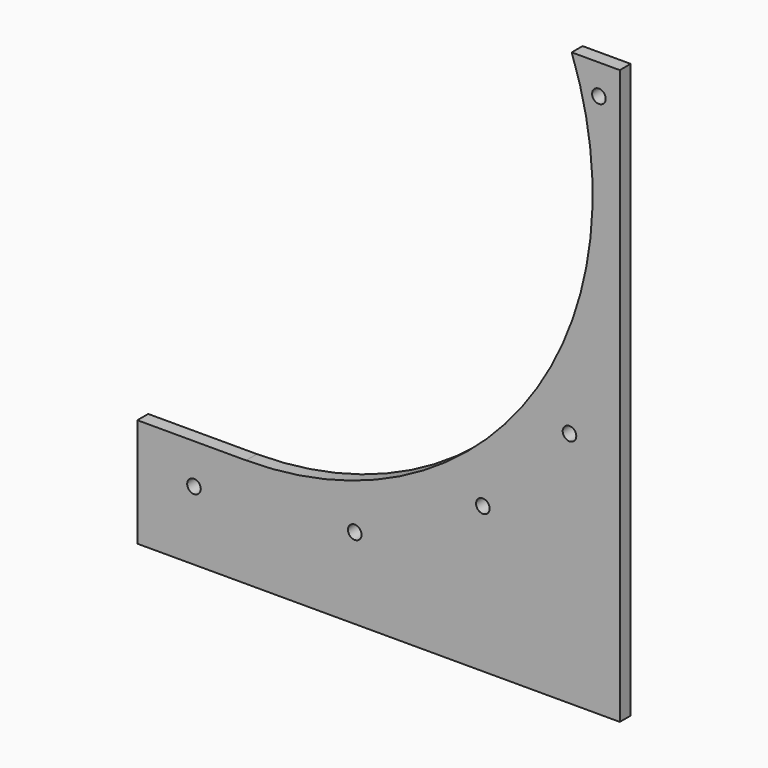
from build123d import *

# Parameters (mm, degrees)
F0_W     = 50.8
F0_H     = 50.8
F1_DEPTH = 6.35
F2_R     = 3.175
F3_DEPTH = 25.4


with BuildPart() as f1:
    # F0 (on Front) → F1 (new body)
    with BuildSketch(Plane.XZ):
        with BuildLine():
            Line((0, 50.8), (0, 0))
            Line((0, 0), (174.625, 0))
            Line((174.625, 0), (174.625, 268.106612))
            Line((174.625, 268.106612), (152.159728, 268.106612))
            ThreePointArc((152.159728, 268.106612), (132.641195, 119.848636), (0, 50.8))
        make_face()
        with Locations((-25.4, 25.4)):
            Rectangle(F0_W, F0_H)
    extrude(amount=F1_DEPTH)

    # F2 (on face) → F3 (cut)
    with BuildSketch(Plane.XZ.offset(6.35)):
        with Locations((-24.335964, 32.157183)):
            Circle(F2_R)
        with Locations((50.775555, 37.742662)):
            Circle(F2_R)
        with Locations((110.648662, 67.970556)):
            Circle(F2_R)
        with Locations((151.115625, 110.935789)):
            Circle(F2_R)
        with Locations((164.859728, 254.167229)):
            Circle(F2_R)
    extrude(amount=-F3_DEPTH, mode=Mode.SUBTRACT)


solid = f1.part
